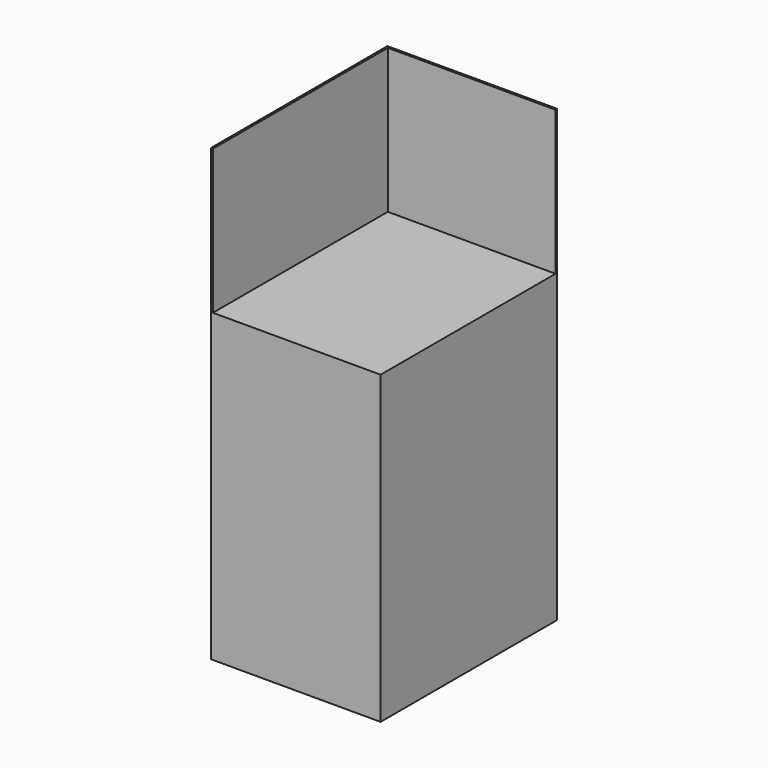
from build123d import *

# Parameters (mm, degrees)
F0_W     = 508
F0_H     = 660.4
F1_DEPTH = 914.4
F2_W     = 6.35
F2_H     = 660.4
F3_DEPTH = 431.8
F4_W     = 6.35
F4_H     = 431.8
F5_DEPTH = 501.65


with BuildPart() as f1:
    # F0 (on Top) → F1 (new body)
    with BuildSketch(Plane.XY):
        with Locations((254, -330.2)):
            Rectangle(F0_W, F0_H)
    extrude(amount=F1_DEPTH)

    # F2 (on face) → F3 (join)
    with BuildSketch(Plane.XY.offset(914.4)):
        with Locations((3.175, -330.2)):
            Rectangle(F2_W, F2_H)
    extrude(amount=F3_DEPTH)

    # F4 (on face) → F5 (join)
    with BuildSketch(Plane.YZ.offset(6.35)):
        with Locations((-3.175, 1130.3)):
            Rectangle(F4_W, F4_H)
    extrude(amount=F5_DEPTH)


solid = f1.part
